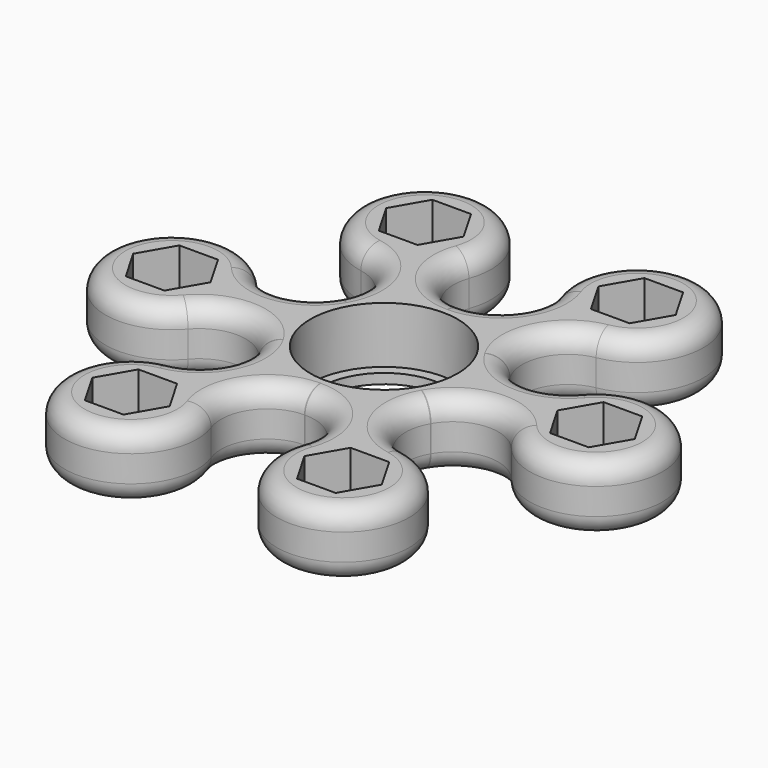
from build123d import *

# Parameters (mm, degrees)
F0_R     = 11.1
F1_DEPTH = 10
F2_R     = 11.1
F2_R_2   = 9.55
F3_DEPTH = 1.5
F4_R     = 3


with BuildPart() as f1:
    # F0 (on Top) → F1 (new body)
    with BuildSketch(Plane.XY):
        with BuildLine():
            ThreePointArc((24.380515, 6.476376), (18.416454, 4.038285), (12.986506, 7.506708))
            ThreePointArc((12.986506, 7.506708), (12.965898, 7.542247), (12.945193, 7.57773))
            ThreePointArc((12.945193, 7.57773), (12.640767, 13.967317), (17.715965, 17.86114))
            ThreePointArc((17.715965, 17.86114), (21.036463, 36.351912), (6.581551, 24.352333))
            ThreePointArc((6.581551, 24.352333), (5.71097, 17.96826), (-0.007747, 14.999998))
            ThreePointArc((-0.007747, 14.999998), (-0.048829, 14.999921), (-0.08991, 14.999731))
            ThreePointArc((-0.08991, 14.999731), (-5.775668, 17.930884), (-6.610218, 24.273046))
            ThreePointArc((-6.610218, 24.273046), (-20.963448, 36.394068), (-17.798963, 17.875957))
            ThreePointArc((-17.798963, 17.875957), (-12.705484, 13.929975), (-12.994253, 7.49329))
            ThreePointArc((-12.994253, 7.49329), (-13.014727, 7.457673), (-13.035103, 7.422001))
            ThreePointArc((-13.035103, 7.422001), (-18.416435, 3.963567), (-24.326183, 6.411906))
            ThreePointArc((-24.326183, 6.411906), (-41.999911, 0.042155), (-24.380515, -6.476376))
            ThreePointArc((-24.380515, -6.476376), (-18.416454, -4.038285), (-12.986506, -7.506708))
            ThreePointArc((-12.986506, -7.506708), (-12.965898, -7.542247), (-12.945193, -7.57773))
            ThreePointArc((-12.945193, -7.57773), (-12.640767, -13.967317), (-17.715965, -17.86114))
            ThreePointArc((-17.715965, -17.86114), (-21.036463, -36.351912), (-6.581551, -24.352333))
            ThreePointArc((-6.581551, -24.352333), (-5.71097, -17.96826), (0.007747, -14.999998))
            ThreePointArc((0.007747, -14.999998), (0.048829, -14.999921), (0.08991, -14.999731))
            ThreePointArc((0.08991, -14.999731), (5.775668, -17.930884), (6.610218, -24.273046))
            ThreePointArc((6.610218, -24.273046), (20.963448, -36.394068), (17.798963, -17.875957))
            ThreePointArc((17.798963, -17.875957), (12.705484, -13.929975), (12.994253, -7.49329))
            ThreePointArc((12.994253, -7.49329), (13.014727, -7.457673), (13.035103, -7.422001))
            ThreePointArc((13.035103, -7.422001), (18.416435, -3.963567), (24.326183, -6.411906))
            ThreePointArc((24.326183, -6.411906), (41.999911, -0.042155), (24.380515, 6.476376))
        make_face()
        Polygon((-18.915619, -22.662813), (-13.084381, -22.662813), (-10.168762, -27.712813), (-13.084381, -32.762813), (-18.915619, -32.762813), (-21.831238, -27.712813), align=None, mode=Mode.SUBTRACT)
        Polygon((-29.084381, 5.05), (-26.168762, 0), (-29.084381, -5.05), (-34.915619, -5.05), (-37.831238, 0), (-34.915619, 5.05), align=None, mode=Mode.SUBTRACT)
        Polygon((10.168762, -27.712813), (13.084381, -22.662813), (18.915619, -22.662813), (21.831238, -27.712813), (18.915619, -32.762813), (13.084381, -32.762813), align=None, mode=Mode.SUBTRACT)
        Polygon((-10.168762, 27.712813), (-13.084381, 22.662813), (-18.915619, 22.662813), (-21.831238, 27.712813), (-18.915619, 32.762813), (-13.084381, 32.762813), align=None, mode=Mode.SUBTRACT)
        Circle(F0_R, mode=Mode.SUBTRACT)
        Polygon((29.084381, -5.05), (26.168762, 0), (29.084381, 5.05), (34.915619, 5.05), (37.831238, 0), (34.915619, -5.05), align=None, mode=Mode.SUBTRACT)
        Polygon((18.915619, 22.662813), (13.084381, 22.662813), (10.168762, 27.712813), (13.084381, 32.762813), (18.915619, 32.762813), (21.831238, 27.712813), align=None, mode=Mode.SUBTRACT)
    extrude(amount=F1_DEPTH)

    # F2 (on Top) → F3 (join)
    with BuildSketch(Plane.XY):
        Circle(F2_R)
        Circle(F2_R_2, mode=Mode.SUBTRACT)
    extrude(amount=F3_DEPTH)

    # F4
    f4_edges = [f1.edges().sort_by_distance(p)[0] for p in [
        (20.963448, -36.394068, 0),
        (20.963448, -36.394068, 10),
    ]]
    fillet(f4_edges, radius=F4_R)


solid = f1.part
